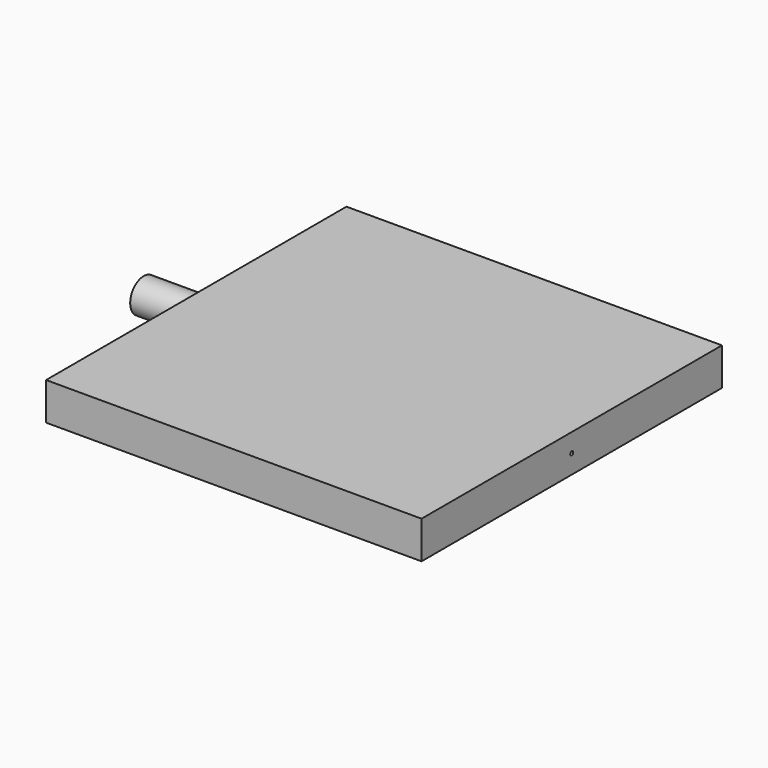
from build123d import *

# Parameters (mm, degrees)
F0_W     = 50
F0_H     = 50
F1_DEPTH = 5
F2_R     = 0.25
F3_DEPTH = 55.8
F4_R     = 2.25
F4_R_2   = 0.875
F5_DEPTH = 7


with BuildPart() as f1:
    # F0 (on Top) → F1 (new body)
    with BuildSketch(Plane.XY):
        with Locations((25, 25)):
            Rectangle(F0_W, F0_H)
    extrude(amount=F1_DEPTH)

    # F2 (on face) → F3 (cut)
    with BuildSketch(Plane.YZ.offset(50)):
        with Locations((25, 2.5)):
            Circle(F2_R)
    extrude(amount=-F3_DEPTH, mode=Mode.SUBTRACT)

    # F4 (on face) → F5 (join)
    with BuildSketch(Plane(origin=(0, 0, 0), x_dir=(0, -1, 0), z_dir=(-1, 0, 0))):
        with Locations((-25, 2.5)):
            Circle(F4_R)
        with Locations((-25, 2.5)):
            Circle(F4_R_2, mode=Mode.SUBTRACT)
    extrude(amount=F5_DEPTH)


solid = f1.part
